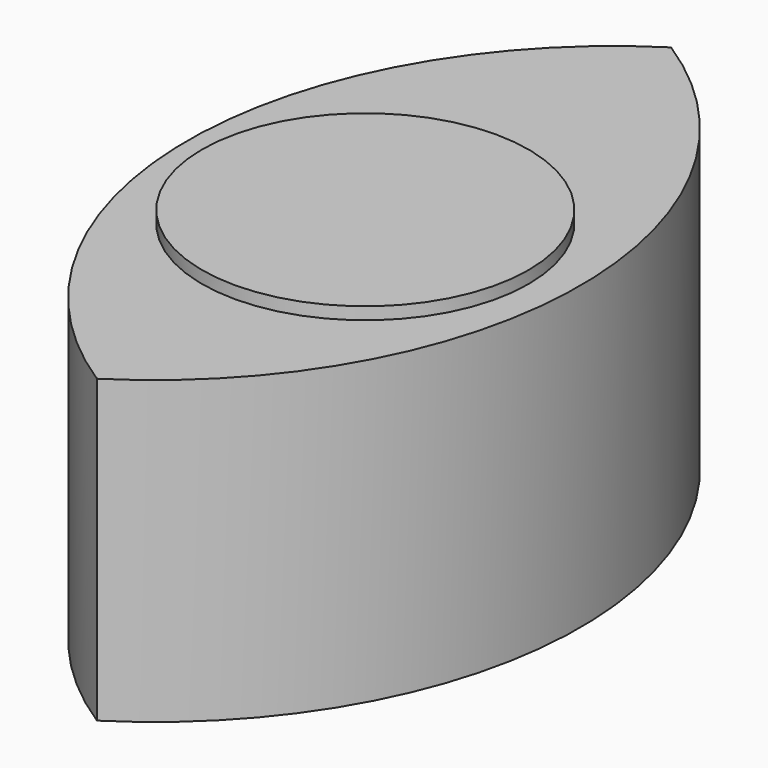
from build123d import *

# Parameters (mm, degrees)
F0_R     = 51.941026
F1_DEPTH = 109
F4_R     = 19.907285
F5_DEPTH = 1.5


with BuildPart() as f1:
    # F0 (on Top) → F1 (new body)
    with BuildSketch(Plane.XY):
        Circle(F0_R)
    extrude(amount=F1_DEPTH)


with BuildPart() as f2_1:
    # F2: copy of F1
    add(f1.part.moved(Location((56, 0, 72.3))))


with BuildPart() as f1_1:
    add(f1.part)

    # F3: intersect F2_1
    add(f2_1.part, mode=Mode.INTERSECT)


with BuildPart() as f5:
    # F4 (on face) → F5 (new body)
    with BuildSketch(Plane.XY.offset(109)):
        with Locations((27.986579, -2.833651)):
            Circle(F4_R)
    extrude(amount=F5_DEPTH)


solid = Compound([f1_1.part, f5.part])
